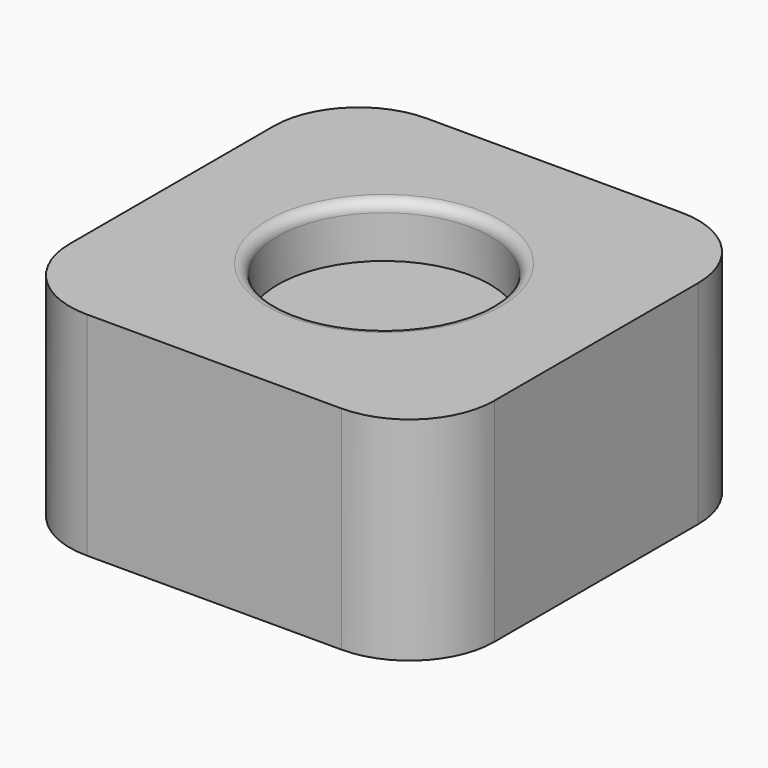
from build123d import *

# Parameters (mm, degrees)
SKETCH_W     = 100
SKETCH_H     = 100
PAD_DEPTH    = 50
SKETCH001_R  = 25
POCKET_DEPTH = 12.5
FILLET_R     = 20
FILLET001_R  = 2.5


with BuildPart() as part:
    # Sketch → Pad (new body)
    with BuildSketch(Plane.XY):
        Rectangle(SKETCH_W, SKETCH_H)
    extrude(amount=PAD_DEPTH)

    # Sketch001 (on Face6 of Pad) → Pocket (cut)
    with BuildSketch(Plane.XY.offset(50)):
        Circle(SKETCH001_R)
    extrude(amount=-POCKET_DEPTH, mode=Mode.SUBTRACT)

    # Fillet
    fillet_edges = [part.edges().sort_by_distance(p)[0] for p in [
        (50, -50, 25),
        (50, 50, 25),
        (-50, 50, 25),
        (-50, -50, 25),
    ]]
    fillet(fillet_edges, radius=FILLET_R)

    # Fillet001
    fillet001_edges = [part.edges().sort_by_distance(p)[0] for p in [
        (-25, 0, 50),
    ]]
    fillet(fillet001_edges, radius=FILLET001_R)


solid = part.part
